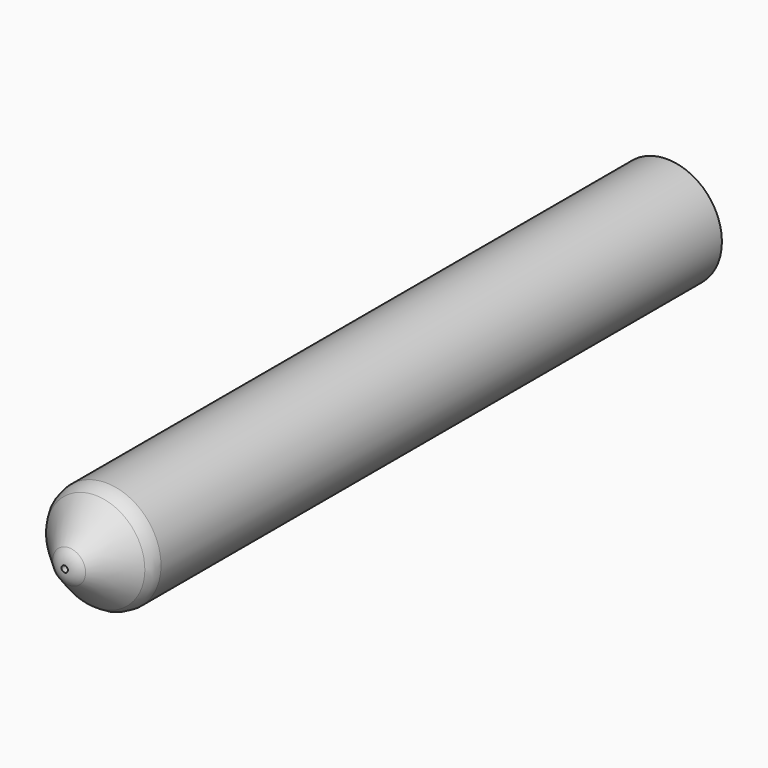
from build123d import *

# Parameters (mm, degrees)
F0_R     = 22.225
F1_DEPTH = 304.8
F2_SIZE  = 17.78
F3_R     = 7.62
F4_R     = 7.62
F6_R     = 19.7961315642
F7_DEPTH = 274.32
F8_R     = 1.2886926547
F9_DEPTH = 304.8


with BuildPart() as f1:
    # F0 (on Front) → F1 (new body)
    with BuildSketch(Plane.XZ):
        Circle(F0_R)
    extrude(amount=F1_DEPTH)

    # F2
    f2_edges = [f1.edges().sort_by_distance(p)[0] for p in [
        (-22.225, -304.8, 0),
    ]]
    chamfer(f2_edges, length=F2_SIZE)

    # F3
    f3_edges = [f1.edges().sort_by_distance(p)[0] for p in [
        (-4.445, -304.8, 0),
    ]]
    fillet(f3_edges, radius=F3_R)

    # F4
    f4_edges = [f1.edges().sort_by_distance(p)[0] for p in [
        (-22.225, -287.02, 0),
    ]]
    fillet(f4_edges, radius=F4_R)

    # F6 (on face) → F7 (cut)
    with BuildSketch(Plane(origin=(0, 0, 0), x_dir=(-1, 0, 0), z_dir=(0, 1, 0))):
        Circle(F6_R)
    extrude(amount=-F7_DEPTH, mode=Mode.SUBTRACT)

    # F8 (on face) → F9 (cut)
    with BuildSketch(Plane.XZ.offset(304.8)):
        Circle(F8_R)
    extrude(amount=-F9_DEPTH, mode=Mode.SUBTRACT)


solid = f1.part
